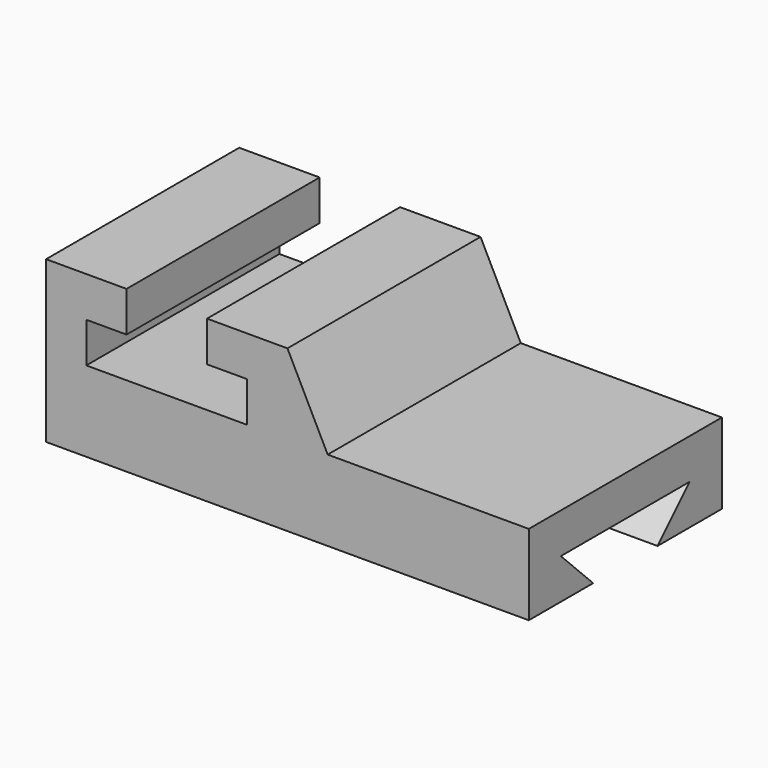
from build123d import *

# Parameters (mm, degrees)
F1_DEPTH = 76.2
F3_DEPTH = 203.2


with BuildPart() as f1:
    # F0 (on Front) → F1 (new body)
    with BuildSketch(Plane.XZ):
        Polygon((-88.9, 50.8), (-88.9, 0), (63.5, 0), (63.5, 25.4), (0, 25.4), (-12.7, 50.8), (-38.1, 50.8), (-38.1, 38.1), (-25.4, 38.1), (-25.4, 25.4), (-76.2, 25.4), (-76.2, 38.1), (-63.5, 38.1), (-63.5, 50.8), align=None)
    extrude(amount=-F1_DEPTH)

    # F2 (on Right) → F3 (cut)
    with BuildSketch(Plane.YZ):
        Polygon((63.425437, 12.6984), (12.625437, 12.6984), (25.4, 0), (50.8, 0), align=None)
    extrude(amount=F3_DEPTH, mode=Mode.SUBTRACT)


solid = f1.part
